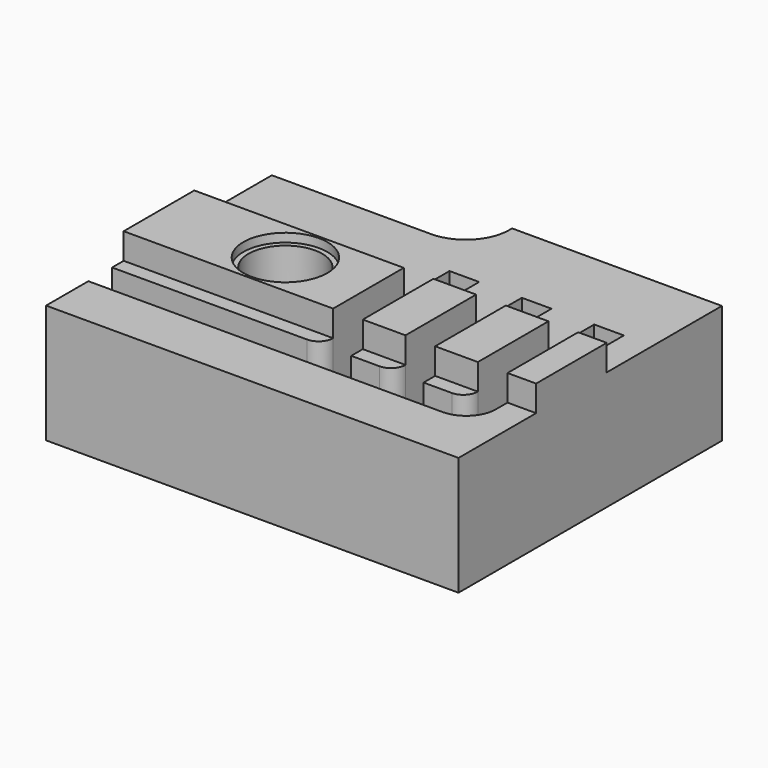
from build123d import *

# Parameters (mm, degrees)
PAD004_DEPTH    = 8.2
SKETCH014_W     = 28.5
SKETCH014_H     = 6.1
PAD005_DEPTH    = 1.8
SKETCH015_R     = 2.9
POCKET004_DEPTH = 0.6
SKETCH016_W     = 2.05
SKETCH016_H     = 6.1
POCKET005_DEPTH = 1.8
POCKET006_DEPTH = 4
SKETCH019_R     = 2.55
POCKET008_DEPTH = 7.5
SKETCH020_R     = 7
POCKET_DEPTH    = 3


with BuildPart() as part:
    # Sketch013 → Pad004 (new body)
    with BuildSketch(Plane.XY):
        with BuildLine():
            Line((0, 0), (28.5, 0))
            Line((28.5, 0), (28.5, 22.75))
            Line((28.5, 22.75), (14, 22.75))
            Line((14, 22.75), (14, 22.5))
            ThreePointArc((11, 19.5), (13.12132, 20.37868), (14, 22.5))
            Line((11, 19.5), (0, 19.5))
            Line((0, 19.5), (0, 0))
        make_face()
    extrude(amount=PAD004_DEPTH)

    # Sketch014 (on Face9 of Pad004) → Pad005 (join)
    with BuildSketch(Plane.XY.offset(8.2)):
        with Locations((14.25, 9.75)):
            Rectangle(SKETCH014_W, SKETCH014_H)
    extrude(amount=PAD005_DEPTH)

    # Sketch015 (on Face11 of Pad005) → Pocket004 (cut)
    with BuildSketch(Plane.XY.offset(10)):
        with Locations((8.735056, 9.75)):
            Circle(SKETCH015_R)
    extrude(amount=-POCKET004_DEPTH, mode=Mode.SUBTRACT)

    # Sketch016 (on Face10 of Pocket004) → Pocket005 (cut)
    with BuildSketch(Plane.XY.offset(10)):
        with Locations((15.5, 9.75)):
            Rectangle(SKETCH016_W, SKETCH016_H)
        Polygon((21.525, 12.8), (21.525, 6.7), (19.475, 6.7), (19.475, 12.8), (20.5, 12.8), align=None)
        with Locations((25.5, 9.75)):
            Rectangle(SKETCH016_W, SKETCH016_H)
    extrude(amount=-POCKET005_DEPTH, mode=Mode.SUBTRACT)

    # Sketch017 (on Face19 of Clone) → Pocket006 (cut)
    with BuildSketch(Plane.XY.offset(8.2)):
        with BuildLine():
            Line((0, 5.7), (13.475, 5.7))
            ThreePointArc((13.475, 5.7), (14.182107, 5.992893), (14.475, 6.7))
            Line((14.475, 6.7), (14.475, 16.75))
            Line((14.475, 16.75), (16.525, 16.75))
            Line((16.525, 16.75), (16.525, 5.7))
            Line((16.525, 5.7), (18.475, 5.7))
            ThreePointArc((18.475, 5.7), (19.182107, 5.992893), (19.475, 6.7))
            Line((19.475, 6.7), (19.475, 16.75))
            Line((19.475, 16.75), (21.525, 16.75))
            Line((21.525, 16.75), (21.525, 5.699968))
            Line((21.525, 5.699968), (23.475, 5.699968))
            ThreePointArc((23.475, 5.699968), (24.182107, 5.992862), (24.475, 6.699968))
            Line((24.475, 6.699968), (24.475, 16.75))
            Line((24.475, 16.75), (26.525, 16.75))
            Line((26.525, 16.75), (26.525, 5.7))
            ThreePointArc((24.475, 3.65), (25.924569, 4.250431), (26.525, 5.7))
            Line((24.475, 3.65), (0, 3.65))
            Line((0, 3.65), (0, 5.7))
        make_face()
    extrude(amount=-POCKET006_DEPTH, mode=Mode.SUBTRACT)

    # Sketch019 (on Face37 of Pocket006) → Pocket008 (cut)
    with BuildSketch(Plane.XY.offset(9.4)):
        with Locations((8.735056, 9.75)):
            Circle(SKETCH019_R)
    extrude(amount=-POCKET008_DEPTH, mode=Mode.SUBTRACT)

    # Sketch020 (on Face4 of Pocket008) → Pocket (cut)
    with BuildSketch(Plane(origin=(0, 0, 0), x_dir=(1, 0, 0), z_dir=(0, 0, -1))):
        with Locations((8.735056, -9.75)):
            Circle(SKETCH020_R)
    extrude(amount=-POCKET_DEPTH, mode=Mode.SUBTRACT)


solid = part.part
